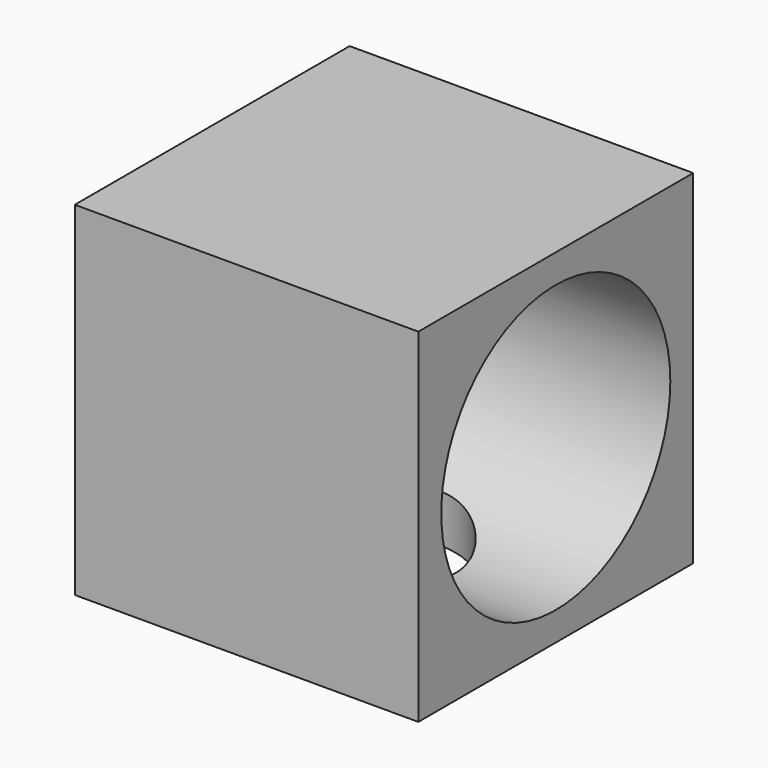
from build123d import *

# Parameters (mm, degrees)
F0_W          = 60
F0_H          = 60
F0_R          = 25
F1_DEPTH      = 30
F2_R          = 12.5
F3_DEPTH      = 25
F3_DEPTH_BACK = 25


with BuildPart() as f1:
    # F0 (on Right) → F1 (new body, symmetric)
    with BuildSketch(Plane.YZ):
        Rectangle(F0_W, F0_H)
        Circle(F0_R, mode=Mode.SUBTRACT)
    extrude(amount=F1_DEPTH, both=True)

    # F2 (on face) → F3 (cut, two sides)
    with BuildSketch(Plane(origin=(0, 0, -30), x_dir=(1, 0, 0), z_dir=(0, 0, -1))) as f3_sk:
        Circle(F2_R)
    extrude(amount=-F3_DEPTH, mode=Mode.SUBTRACT)
    extrude(f3_sk.sketch, amount=-F3_DEPTH_BACK, mode=Mode.SUBTRACT)


solid = f1.part
